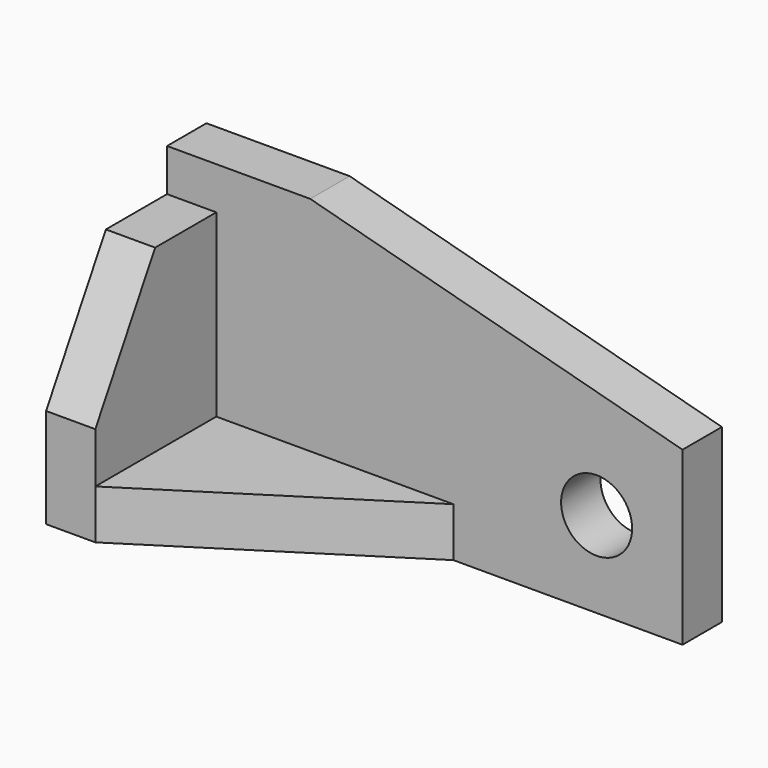
from build123d import *

# Parameters (mm, degrees)
F1_DEPTH = 10.922
F4_DEPTH = 10.922
F5_DEPTH = 10.922
F6_R     = 7.874
F7_DEPTH = 10.922


with BuildPart() as f1:
    # F0 (on Front) → F1 (new body)
    with BuildSketch(Plane.XZ):
        Polygon((31.75, 60.198), (0, 60.198), (0, 0), (114.3, 0), (114.3, 38.078794), align=None)
    extrude(amount=-F1_DEPTH)

    # F3 (on Right) → F4 (join)
    with BuildSketch(Plane.YZ):
        Polygon((-33.528, 0), (0, 0), (0, 50.8), (-16.956893, 50.8), (-33.528, 22.098), align=None)
    extrude(amount=F4_DEPTH)

    # F2 (on Top) → F5 (join)
    with BuildSketch(Plane.XY):
        Polygon((63.5, 0), (10.922, 0), (10.922, -33.528), align=None)
    extrude(amount=F5_DEPTH)

    # F6 (on face) → F7 (cut)
    with BuildSketch(Plane.XZ):
        with Locations((95.250003, 19.05)):
            Circle(F6_R)
    extrude(amount=-F7_DEPTH, mode=Mode.SUBTRACT)


solid = f1.part
